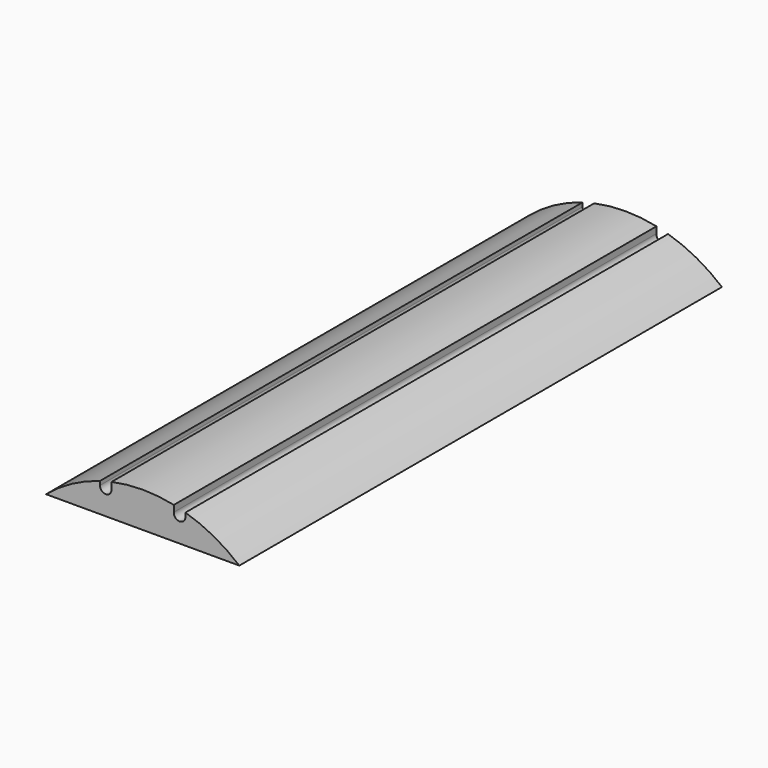
from build123d import *

# Parameters (mm, degrees)
F1_DEPTH = 311.15


with BuildPart() as f1:
    # F0 (on Front) → F1 (new body)
    with BuildSketch(Plane.XZ):
        with BuildLine():
            Line((-49.8280417436, 58.7375), (49.8280417436, 58.7375))
            ThreePointArc((49.8280417436, 58.7375), (36.7198515553, 67.7095277786), (22.05, 73.801931887))
            Line((22.05, 73.801931887), (22.05, 71.7951364665))
            ThreePointArc((22.05, 71.7951364665), (18.9376310607, 68.7972416683), (16.0584178523, 72.0197166389))
            Line((16.0584178523, 72.0197166389), (16.0584178523, 75.3329600263))
            ThreePointArc((16.0584178523, 75.3329600263), (-0.00173326, 77.0254999805), (-16.0618081837, 75.3322372436))
            Line((-16.0618081837, 75.3322372436), (-16.0618081837, 72.0610493636))
            ThreePointArc((-16.0618081837, 72.0610493636), (-16.0529534998, 71.9282239397), (-16.05, 71.7951364665))
            ThreePointArc((-16.05, 71.7951364665), (-19.05, 68.7951364665), (-22.05, 71.7951364665))
            Line((-22.05, 71.7951364665), (-22.05, 73.801931887))
            ThreePointArc((-22.05, 73.801931887), (-36.7198515553, 67.7095277787), (-49.8280417436, 58.7375))
        make_face()
    extrude(amount=F1_DEPTH)


solid = f1.part
